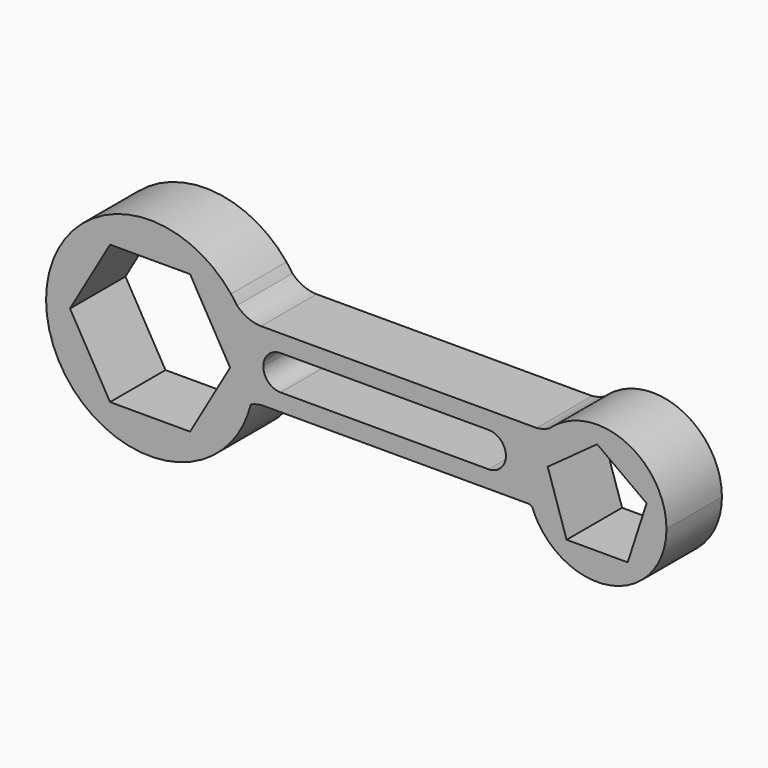
from build123d import *

# Parameters (mm, degrees)
F1_DEPTH = 20


with BuildPart() as f1:
    # F0 (on Front) → F1 (new body)
    with BuildSketch(Plane.XZ):
        with BuildLine():
            ThreePointArc((-17.147831, -10.293294), (5.34057, -19.273773), (20, 0))
            ThreePointArc((20, 0), (9.493262, 17.603351), (-10.987798, 16.711323))
            ThreePointArc((-10.987798, 16.711323), (-12.232653, 15.54701), (-13.657159, 14.611023))
            ThreePointArc((-13.657159, 14.611023), (-14.240981, 14.042594), (-14.801165, 13.450856))
            ThreePointArc((-14.801165, 13.450856), (-19.593289, 4.012858), (-18.89732, -6.549144))
            ThreePointArc((-18.89732, -6.549144), (-18.803044, -6.815095), (-18.705026, -7.079689))
            ThreePointArc((-18.705026, -7.079689), (-17.574185, -8.515807), (-17.147831, -10.293294))
        make_face()
        Polygon((0, 15), (14.265848, 4.635255), (8.816779, -12.135255), (-8.816779, -12.135255), (-14.265848, 4.635255), align=None, mode=Mode.SUBTRACT)
        with BuildLine():
            ThreePointArc((-13.657159, 14.611023), (-12.232653, 15.54701), (-10.987798, 16.711323))
            ThreePointArc((-10.987798, 16.711323), (-12.367146, 15.717942), (-13.657159, 14.611023))
        make_face()
        with BuildLine():
            ThreePointArc((-18.705026, -7.079689), (-17.998296, -8.721316), (-17.147831, -10.293294))
            ThreePointArc((-17.147831, -10.293294), (-17.574185, -8.515807), (-18.705026, -7.079689))
        make_face()
        with BuildLine():
            ThreePointArc((-14.801165, 13.450856), (-14.240981, 14.042594), (-13.657159, 14.611023))
            ThreePointArc((-13.657159, 14.611023), (-15.505162, 13.839074), (-17.469928, 13.450856))
            Line((-17.469928, 13.450856), (-14.801165, 13.450856))
        make_face()
        with BuildLine():
            ThreePointArc((-19.527159, -6.549144), (-19.100839, -6.79078), (-18.705026, -7.079689))
            ThreePointArc((-18.705026, -7.079689), (-18.803044, -6.815095), (-18.89732, -6.549144))
            Line((-18.89732, -6.549144), (-19.527159, -6.549144))
        make_face()
        with BuildLine():
            ThreePointArc((-18.89732, -6.549144), (-19.593289, 4.012858), (-14.801165, 13.450856))
            Line((-14.801165, 13.450856), (-17.469928, 13.450856))
            ThreePointArc((-17.469928, 13.450856), (-18.416226, 13.405981), (-19.362524, 13.450856))
            Line((-19.362524, 13.450856), (-96.597262, 13.450856))
            ThreePointArc((-96.597262, 13.450856), (-96.773372, 13.449305), (-96.949482, 13.450856))
            Line((-96.949482, 13.450856), (-102.184436, 13.450856))
            ThreePointArc((-102.184436, 13.450856), (-99.806962, 6.911334), (-99, 0))
            ThreePointArc((-99, 0), (-99.181444, -3.294498), (-99.723581, -6.549144))
            Line((-99.723581, -6.549144), (-96.597262, -6.549144))
            Line((-96.597262, -6.549144), (-23.303071, -6.549144))
            ThreePointArc((-23.303071, -6.549144), (-21.415115, -6.108877), (-19.527159, -6.549144))
            Line((-19.527159, -6.549144), (-18.89732, -6.549144))
        make_face()
        with BuildLine():
            Line((-96.333308, 3.450856), (-96.333308, 3.451164))
            ThreePointArc((-96.333308, 3.451164), (-94.849143, 7.006289), (-91.277745, 8.450856))
            Line((-91.277745, 8.450856), (-31.333308, 8.450856))
            ThreePointArc((-31.333308, 8.450856), (-27.797775, 6.98639), (-26.333308, 3.450856))
            ThreePointArc((-26.333308, 3.450856), (-27.797775, -0.084678), (-31.333308, -1.549144))
            Line((-31.333308, -1.549144), (-91.333308, -1.549144))
            ThreePointArc((-91.333308, -1.549144), (-94.868842, -0.084678), (-96.333308, 3.450856))
        make_face(mode=Mode.SUBTRACT)
        with BuildLine():
            ThreePointArc((-19.362524, 13.450856), (-18.416226, 13.405981), (-17.469928, 13.450856))
            Line((-17.469928, 13.450856), (-19.362524, 13.450856))
        make_face()
        with BuildLine():
            Line((-23.303071, -6.549144), (-19.527159, -6.549144))
            ThreePointArc((-19.527159, -6.549144), (-21.415115, -6.108877), (-23.303071, -6.549144))
        make_face()
        with BuildLine():
            ThreePointArc((-96.949482, 13.450856), (-96.773372, 13.449305), (-96.597262, 13.450856))
            Line((-96.597262, 13.450856), (-96.949482, 13.450856))
        make_face()
        with BuildLine():
            ThreePointArc((-99.918438, -7.366324), (-98.293046, -6.814691), (-96.597262, -6.549144))
            Line((-96.597262, -6.549144), (-99.723581, -6.549144))
            ThreePointArc((-99.723581, -6.549144), (-99.818149, -6.958416), (-99.918438, -7.366324))
        make_face()
        with BuildLine():
            Line((-102.184436, 13.450856), (-96.949482, 13.450856))
            ThreePointArc((-96.949482, 13.450856), (-100.721368, 14.261632), (-103.905615, 16.439946))
            ThreePointArc((-103.905615, 16.439946), (-103.002031, 14.970158), (-102.184436, 13.450856))
        make_face()
        with BuildLine():
            ThreePointArc((-99.918438, -7.366324), (-99.818149, -6.958416), (-99.723581, -6.549144))
            ThreePointArc((-99.723581, -6.549144), (-99.181444, -3.294498), (-99, 0))
            ThreePointArc((-99, 0), (-99.806962, 6.911334), (-102.184436, 13.450856))
            ThreePointArc((-102.184436, 13.450856), (-103.002031, 14.970158), (-103.905615, 16.439946))
            ThreePointArc((-103.905615, 16.439946), (-104.859329, 17.565659), (-105.637028, 18.819446))
            ThreePointArc((-105.637028, 18.819446), (-159, 0), (-105.637028, -18.819446))
            ThreePointArc((-105.637028, -18.819446), (-104.850555, -12.057916), (-99.918438, -7.366324))
        make_face()
        Polygon((-117.452995, 20), (-105.905989, 0), (-117.452995, -20), (-140.547005, -20), (-152.094011, 0), (-140.547005, 20), align=None, mode=Mode.SUBTRACT)
        with BuildLine():
            ThreePointArc((-105.637028, -18.819446), (-102.159717, -13.401463), (-99.918438, -7.366324))
            ThreePointArc((-99.918438, -7.366324), (-104.850555, -12.057916), (-105.637028, -18.819446))
        make_face()
        with BuildLine():
            ThreePointArc((-105.637028, 18.819446), (-104.859329, 17.565659), (-103.905615, 16.439946))
            ThreePointArc((-103.905615, 16.439946), (-104.742128, 17.650939), (-105.637028, 18.819446))
        make_face()
    extrude(amount=F1_DEPTH)


solid = f1.part
